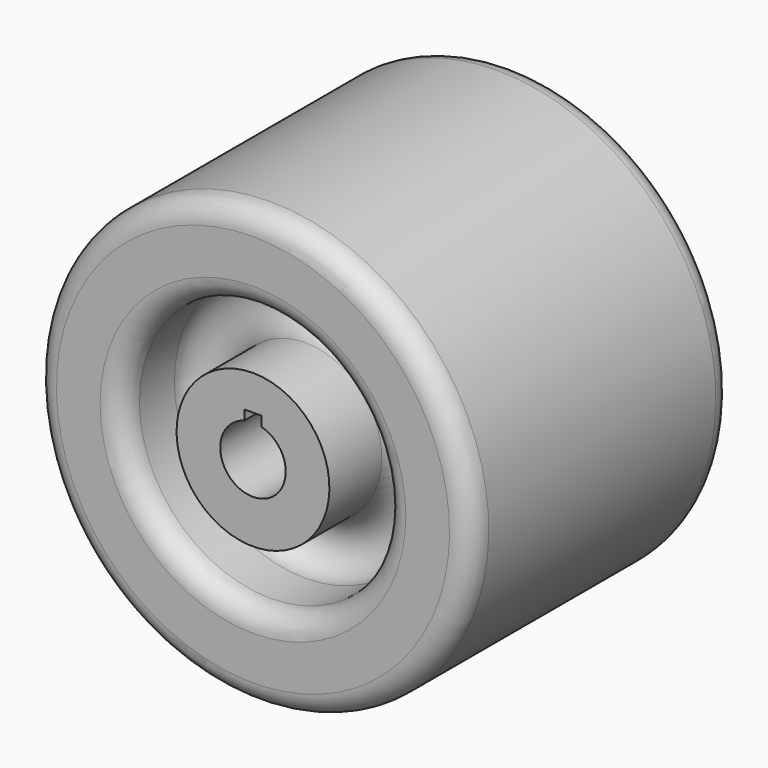
from build123d import *

# Parameters (mm, degrees)
F3_DEPTH = 75.001
F4_R     = 5
F5_R     = 5


with BuildPart() as f1:
    # F0 (on Right) → F1 (revolve)
    with BuildSketch(Plane.YZ):
        with BuildLine():
            Line((0, 7.5), (37.5, 7.5))
            Line((37.5, 7.5), (37.5, 17.5))
            Line((37.5, 17.5), (22.5, 17.5))
            ThreePointArc((22.5, 17.5), (16.25, 23.75), (22.5, 30))
            Line((22.5, 30), (37.5, 30))
            Line((37.5, 30), (37.5, 50))
            Line((37.5, 50), (0, 50))
            Line((0, 50), (-37.5, 50))
            Line((-37.5, 50), (-37.5, 30))
            Line((-37.5, 30), (-22.5, 30))
            ThreePointArc((-22.5, 30), (-16.25, 23.75), (-22.5, 17.5))
            Line((-22.5, 17.5), (-37.5, 17.5))
            Line((-37.5, 17.5), (-37.5, 7.5))
            Line((-37.5, 7.5), (0, 7.5))
        make_face()
    revolve(axis=Axis((0, 0, 0), (0, 1, 0)))

    # F2 (on face) → F3 (cut, through all)
    with BuildSketch(Plane.XZ.offset(37.5)):
        with BuildLine():
            Line((-2, 9.5), (-2, 7.228416))
            ThreePointArc((-2, 7.228416), (0, 7.5), (2, 7.228416))
            Line((2, 7.228416), (2, 9.5))
            Line((2, 9.5), (-2, 9.5))
        make_face()
    extrude(amount=-F3_DEPTH, mode=Mode.SUBTRACT)

    # F4
    f4_edges = [f1.edges().sort_by_distance(p)[0] for p in [
        (0, -37.5, -30),
    ]]
    fillet(f4_edges, radius=F4_R)

    # F5
    f5_edges = [f1.edges().sort_by_distance(p)[0] for p in [
        (0, -37.5, -50),
        (0, 37.5, -50),
    ]]
    fillet(f5_edges, radius=F5_R)


solid = f1.part
